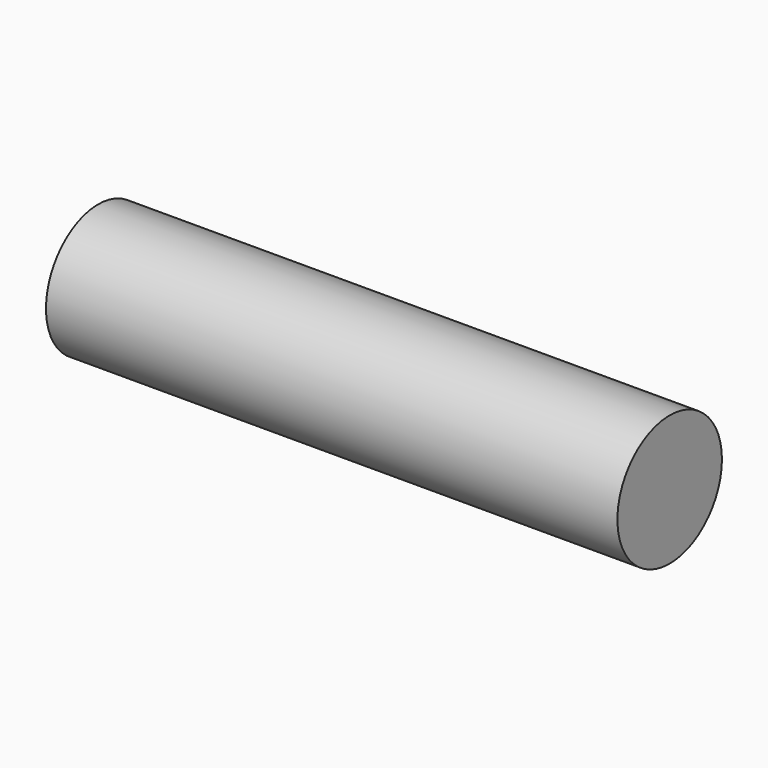
from build123d import *

# Parameters (mm, degrees)
F0_W     = 10
F0_H     = 5.08
F1_DEPTH = 12.7
F2_W     = 6.466258
F2_H     = 14.43815
F2_R     = 1.143
F3_DEPTH = 10.001


with BuildPart() as f1:
    # F0 (on Top) → F1 (new body)
    with BuildSketch(Plane.XY):
        with Locations((-1.611576, -7.068963)):
            Rectangle(F0_W, F0_H)
    extrude(amount=F1_DEPTH)

    # F2 (on face) → F3 (cut, through all)
    with BuildSketch(Plane.YZ.offset(3.388424)):
        with Locations((-6.872554, 6.223226)):
            Rectangle(F2_W, F2_H)
        with Locations((-7.359186, 5.490271)):
            Circle(F2_R, mode=Mode.SUBTRACT)
    extrude(amount=-F3_DEPTH, mode=Mode.SUBTRACT)


solid = f1.part
